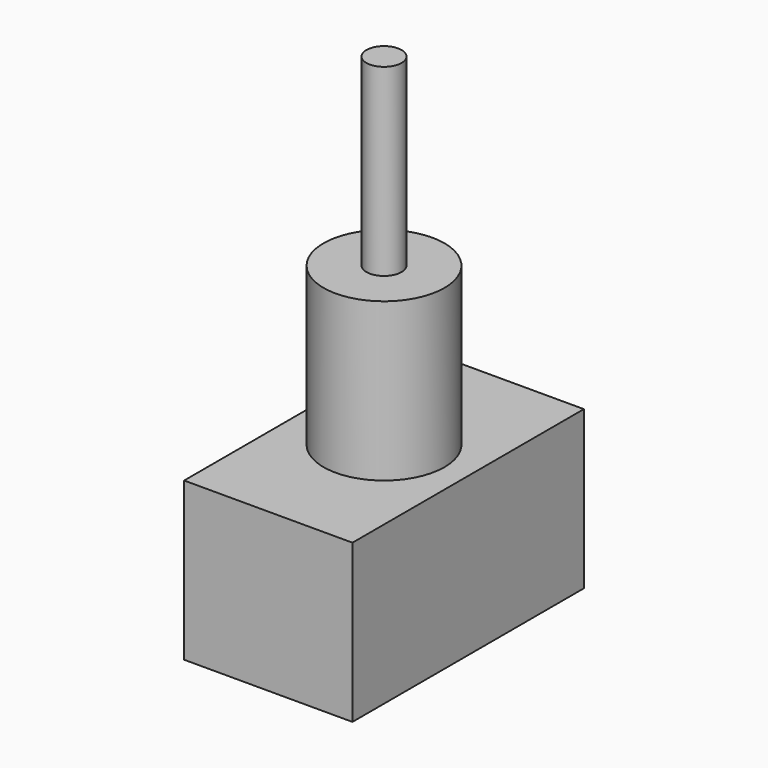
from build123d import *

# Parameters (mm, degrees)
F0_R     = 5.842
F1_DEPTH = 15.24
F2_R     = 1.696679
F3_DEPTH = 17.78
F4_W     = 16.256
F4_H     = 27.940002
F5_DEPTH = 15.24


with BuildPart() as f1:
    # F0 (on Top) → F1 (new body)
    with BuildSketch(Plane.XY):
        Circle(F0_R)
    extrude(amount=F1_DEPTH)

    # F2 (on face) → F3 (join)
    with BuildSketch(Plane.XY.offset(15.24)):
        Circle(F2_R)
    extrude(amount=F3_DEPTH)

    # F4 (on Top) → F5 (join)
    with BuildSketch(Plane.XY):
        Rectangle(F4_W, F4_H)
    extrude(amount=-F5_DEPTH)


solid = f1.part
